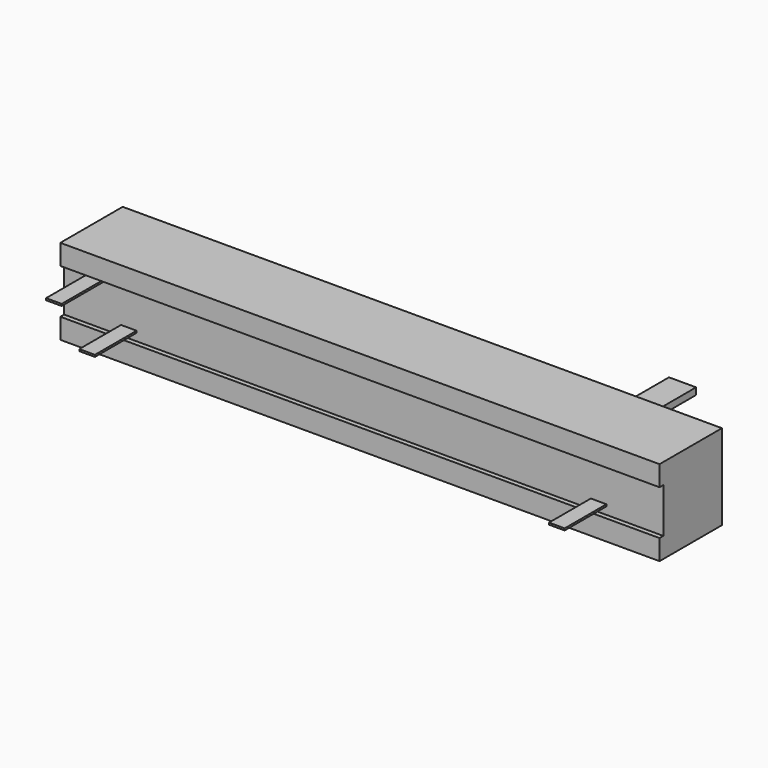
from build123d import *

# Parameters (mm, degrees)
F0_W     = 88.4
F0_H     = 6.6
F0_W_2   = 2.3
F0_H_2   = 0.28
F0_H_3   = 3
F1_DEPTH = 10.8
F2_DEPTH = 7.7
F3_DEPTH = 0.7
F4_W     = 4
F4_H     = 1
F5_DEPTH = 14.8


with BuildPart() as f1:
    # F0 (on Front) → F1 (new body)
    with BuildSketch(Plane.XZ):
        Rectangle(F0_W, F0_H)
        with Locations((-34.65, -2.06)):
            Rectangle(F0_W_2, F0_H_2, mode=Mode.SUBTRACT)
        with Locations((34.65, -2.06)):
            Rectangle(F0_W_2, F0_H_2, mode=Mode.SUBTRACT)
        with Locations((-39.55, 2.96)):
            Rectangle(F0_W_2, F0_H_2, mode=Mode.SUBTRACT)
        with Locations((0, 4.8)):
            Rectangle(F0_W, F0_H_3)
        with Locations((0, -4.8)):
            Rectangle(F0_W, F0_H_3)
        with Locations((-39.55, 2.96)):
            Rectangle(F0_W_2, F0_H_2)
        with Locations((-34.65, -2.06)):
            Rectangle(F0_W_2, F0_H_2)
        with Locations((34.65, -2.06)):
            Rectangle(F0_W_2, F0_H_2)
    extrude(amount=-F1_DEPTH)

    # F0 (on Front) → F2 (join)
    with BuildSketch(Plane.XZ):
        with Locations((34.65, -2.06)):
            Rectangle(F0_W_2, F0_H_2)
        with Locations((-39.55, 2.96)):
            Rectangle(F0_W_2, F0_H_2)
        with Locations((-34.65, -2.06)):
            Rectangle(F0_W_2, F0_H_2)
    extrude(amount=F2_DEPTH)

    # F0 (on Front) → F3 (join)
    with BuildSketch(Plane.XZ):
        with Locations((0, 4.8)):
            Rectangle(F0_W, F0_H_3)
        with Locations((0, -4.8)):
            Rectangle(F0_W, F0_H_3)
    extrude(amount=F3_DEPTH)


with BuildPart() as f5:
    # F4 (on face) → F5 (new body)
    with BuildSketch(Plane(origin=(0, 10.8, 0), x_dir=(-1, 0, 0), z_dir=(0, 1, 0))):
        with Locations((-26.55, 0)):
            Rectangle(F4_W, F4_H)
    extrude(amount=F5_DEPTH)


solid = Compound([f1.part, f5.part])
